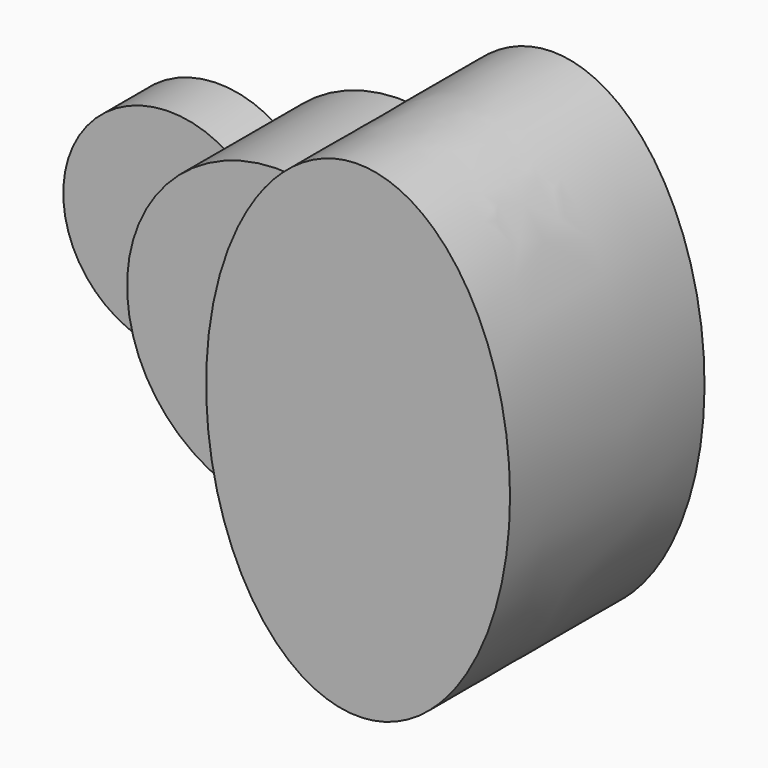
from build123d import *

# Parameters (mm, degrees)
F1_DEPTH = 25.4
F2_DEPTH = 63.5
F3_DEPTH = 101.6


with BuildPart() as f1:
    # F0 (on Front) → F1 (new body)
    with BuildSketch(Plane.XZ):
        with BuildLine():
            ThreePointArc((-51.59375, -37.0180356169), (-60.4501990278, -19.4428248333), (-63.5, 0))
            ThreePointArc((-63.5, 0), (-60.4501990278, 19.4428248333), (-51.59375, 37.0180356169))
            ThreePointArc((-51.59375, 37.0180356169), (-120.65, 0), (-51.59375, -37.0180356169))
        make_face()
    extrude(amount=F1_DEPTH)

    # F0 (on Front) → F2 (join)
    with BuildSketch(Plane.XZ):
        with BuildLine():
            Line((-31.75, 0), (0, 0))
            add(Edge.make_bspline(
                [(13.2439655959, 62.1035214404), (0, 34.6669399309), (0, 0)],
                knots=[4.0547434617, 4.0547434617, 4.0547434617, 4.7123889804, 4.7123889804, 4.7123889804], degree=2, weights=[1, 0.9464231645, 1]))
            ThreePointArc((13.2439655959, 62.1035214404), (-22.9128106244, 59.2220660674), (-51.59375, 37.0180356169))
            ThreePointArc((-51.59375, 37.0180356169), (-37.0237934934, 21.0006510316), (-31.75, 0))
        make_face()
        with BuildLine():
            Line((-63.5, 0), (-31.75, 0))
            ThreePointArc((-31.75, 0), (-37.0237934934, 21.0006510316), (-51.59375, 37.0180356169))
            ThreePointArc((-51.59375, 37.0180356169), (-60.4501990278, 19.4428248333), (-63.5, 0))
        make_face()
        with BuildLine():
            ThreePointArc((-51.59375, -37.0180356169), (-37.0237934934, -21.0006510316), (-31.75, 0))
            Line((-31.75, 0), (-63.5, 0))
            ThreePointArc((-63.5, 0), (-60.4501990278, -19.4428248333), (-51.59375, -37.0180356169))
        make_face()
        with BuildLine():
            add(Edge.make_bspline(
                [(0, 0), (0, -34.6669399309), (13.2439655959, -62.1035214404)],
                knots=[4.7123889804, 4.7123889804, 4.7123889804, 5.370034499, 5.370034499, 5.370034499], degree=2, weights=[1, 0.9464231645, 1]))
            Line((0, 0), (-31.75, 0))
            ThreePointArc((-31.75, 0), (-37.0237934934, -21.0006510316), (-51.59375, -37.0180356169))
            ThreePointArc((-51.59375, -37.0180356169), (-22.9128106244, -59.2220660674), (13.2439655959, -62.1035214404))
        make_face()
    extrude(amount=F2_DEPTH)

    # F0 (on Front) → F3 (join)
    with BuildSketch(Plane.XZ):
        with BuildLine():
            add(Edge.make_bspline(
                [(63.5, 101.6), (32.3093875408, 101.6), (13.2439655959, 62.1035214404)],
                knots=[3.1415926536, 3.1415926536, 3.1415926536, 4.0547434617, 4.0547434617, 4.0547434617], degree=2, weights=[1, 0.8975675831, 1]))
            ThreePointArc((13.2439655959, 62.1035214404), (49.3621404284, 39.9453262889), (63.5, 0))
            Line((63.5, 0), (63.5, 101.6))
        make_face()
        with BuildLine():
            ThreePointArc((63.5, 0), (49.3621404284, -39.9453262889), (13.2439655959, -62.1035214404))
            add(Edge.make_bspline(
                [(13.2439655959, -62.1035214404), (75.5537087854, -191.1861844445), (120.4955415237, -44.7930922222), (165.437374262, 101.6), (63.5, 101.6)],
                knots=[5.370034499, 5.370034499, 5.370034499, 7.3974062299, 7.3974062299, 9.4247779608, 9.4247779608, 9.4247779608], degree=2, weights=[1, 0.5287358074, 1, 0.5287358074, 1]))
            Line((63.5, 101.6), (63.5, 0))
        make_face()
        with BuildLine():
            add(Edge.make_bspline(
                [(13.2439655959, 62.1035214404), (0, 34.6669399309), (0, 0)],
                knots=[4.0547434617, 4.0547434617, 4.0547434617, 4.7123889804, 4.7123889804, 4.7123889804], degree=2, weights=[1, 0.9464231645, 1]))
            add(Edge.make_bspline(
                [(0, 0), (0, -34.6669399309), (13.2439655959, -62.1035214404)],
                knots=[4.7123889804, 4.7123889804, 4.7123889804, 5.370034499, 5.370034499, 5.370034499], degree=2, weights=[1, 0.9464231645, 1]))
            ThreePointArc((13.2439655959, -62.1035214404), (49.3621404284, -39.9453262889), (63.5, 0))
            ThreePointArc((63.5, 0), (49.3621404284, 39.9453262889), (13.2439655959, 62.1035214404))
        make_face()
    extrude(amount=F3_DEPTH)


solid = f1.part
